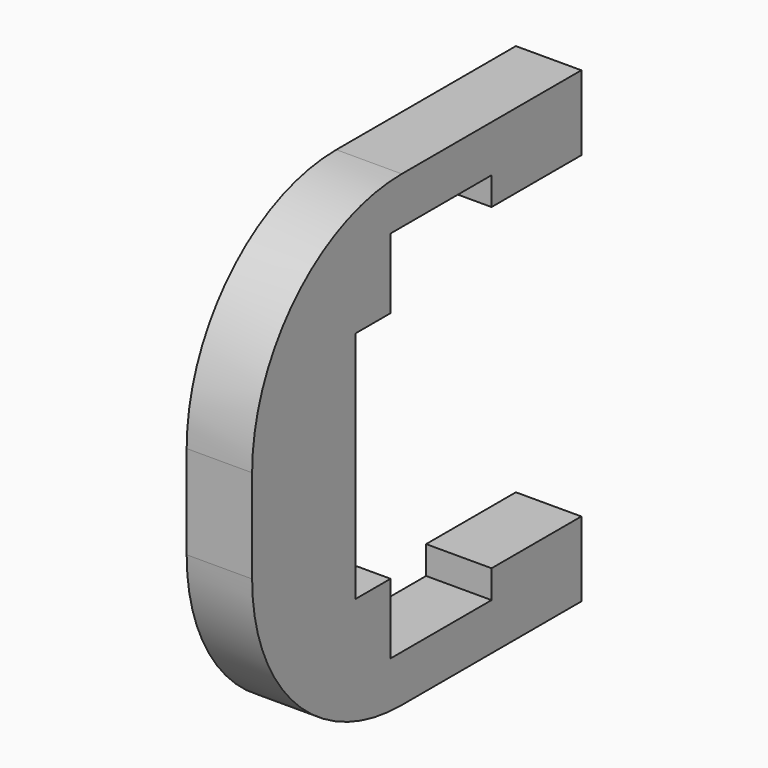
from build123d import *

# Parameters (mm, degrees)
F0_W     = 3.5
F0_H     = 25
F1_DEPTH = 22
F3_DEPTH = 25
F4_R     = 10


with BuildPart() as f1:
    # F0 (on Front) → F1 (new body)
    with BuildSketch(Plane.XZ):
        Rectangle(F0_W, F0_H)
    extrude(amount=F1_DEPTH)

    # F2 (on face) → F3 (cut)
    with BuildSketch(Plane(origin=(-1.75, 0, 0), x_dir=(0, -1, 0), z_dir=(-1, 0, 0))):
        Polygon((0, 8.5), (0, -8.5), (6, -8.5), (6, -10), (12.75, -10), (12.75, -6.25), (15.1, -6.25), (15.1, 6.25), (12.75, 6.25), (12.75, 10), (6, 10), (6, 8.5), align=None)
    extrude(amount=-F3_DEPTH, mode=Mode.SUBTRACT)

    # F4
    f4_edges = [f1.edges().sort_by_distance(p)[0] for p in [
        (0, -22, 12.5),
        (0, -22, -12.5),
    ]]
    fillet(f4_edges, radius=F4_R)


solid = f1.part
